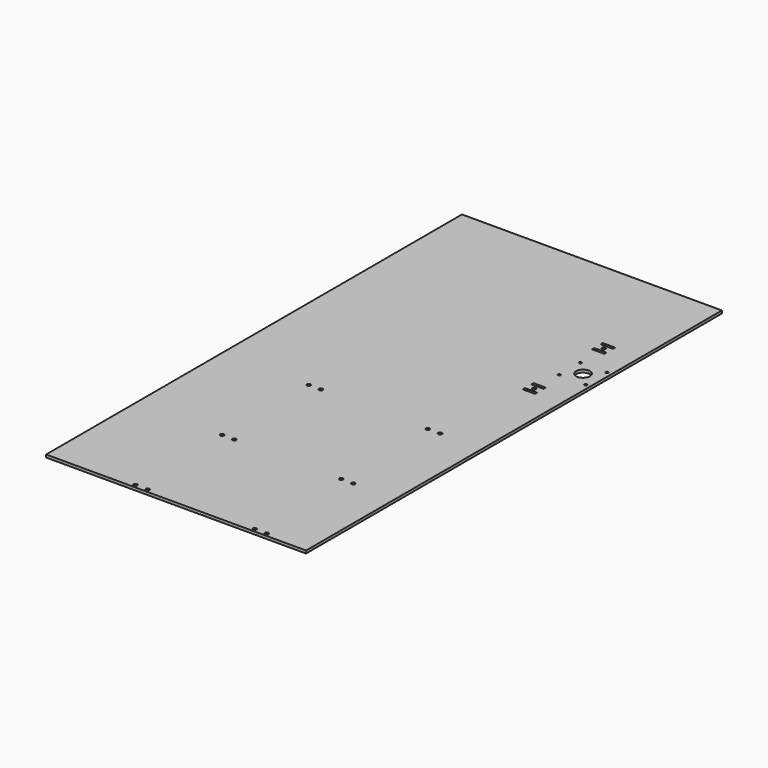
from build123d import *

# Parameters (mm, degrees)
F0_W     = 304.8
F0_H     = 609.6
F0_R     = 2.15265
F0_W_2   = 14.35001
F0_H_2   = 3.175
F0_R_2   = 1.5
F0_R_3   = 8.126512
F1_DEPTH = 3.175


with BuildPart() as f1:
    # F0 (on Top) → F1 (new body)
    with BuildSketch(Plane.XY):
        with Locations((152.4, 304.8)):
            Rectangle(F0_W, F0_H)
        with Locations((101.6, 3.96875)):
            Circle(F0_R, mode=Mode.SUBTRACT)
        with Locations((115.8875, 3.96875)):
            Circle(F0_R, mode=Mode.SUBTRACT)
        with Locations((101.6, 130.96875)):
            Circle(F0_R, mode=Mode.SUBTRACT)
        with Locations((115.8875, 130.96875)):
            Circle(F0_R, mode=Mode.SUBTRACT)
        with Locations((101.6, 257.96875)):
            Circle(F0_R, mode=Mode.SUBTRACT)
        with Locations((115.8875, 257.96875)):
            Circle(F0_R, mode=Mode.SUBTRACT)
        with Locations((241.3, 3.96875)):
            Circle(F0_R, mode=Mode.SUBTRACT)
        with Locations((255.5875, 3.96875)):
            Circle(F0_R, mode=Mode.SUBTRACT)
        with Locations((241.3, 130.96875)):
            Circle(F0_R, mode=Mode.SUBTRACT)
        with Locations((255.5875, 130.96875)):
            Circle(F0_R, mode=Mode.SUBTRACT)
        with Locations((241.3, 257.96875)):
            Circle(F0_R, mode=Mode.SUBTRACT)
        with Locations((255.5875, 257.96875)):
            Circle(F0_R, mode=Mode.SUBTRACT)
        with Locations((267.287196, 375.107023)):
            Rectangle(F0_W_2, F0_H_2, mode=Mode.SUBTRACT)
        with Locations((267.287196, 381.457023)):
            Circle(F0_R, mode=Mode.SUBTRACT)
        with Locations((267.287196, 387.807023)):
            Rectangle(F0_W_2, F0_H_2, mode=Mode.SUBTRACT)
        with Locations((268.352573, 416.757028)):
            Circle(F0_R_2, mode=Mode.SUBTRACT)
        with Locations((299.352562, 416.757028)):
            Circle(F0_R_2, mode=Mode.SUBTRACT)
        with Locations((283.852568, 432.257023)):
            Circle(F0_R_3, mode=Mode.SUBTRACT)
        with Locations((268.352573, 447.757017)):
            Circle(F0_R_2, mode=Mode.SUBTRACT)
        with Locations((299.352562, 447.757017)):
            Circle(F0_R_2, mode=Mode.SUBTRACT)
        with Locations((267.287196, 476.707023)):
            Rectangle(F0_W_2, F0_H_2, mode=Mode.SUBTRACT)
        with Locations((267.287196, 483.057023)):
            Circle(F0_R, mode=Mode.SUBTRACT)
        with Locations((267.287196, 489.407023)):
            Rectangle(F0_W_2, F0_H_2, mode=Mode.SUBTRACT)
    extrude(amount=F1_DEPTH)


solid = f1.part
